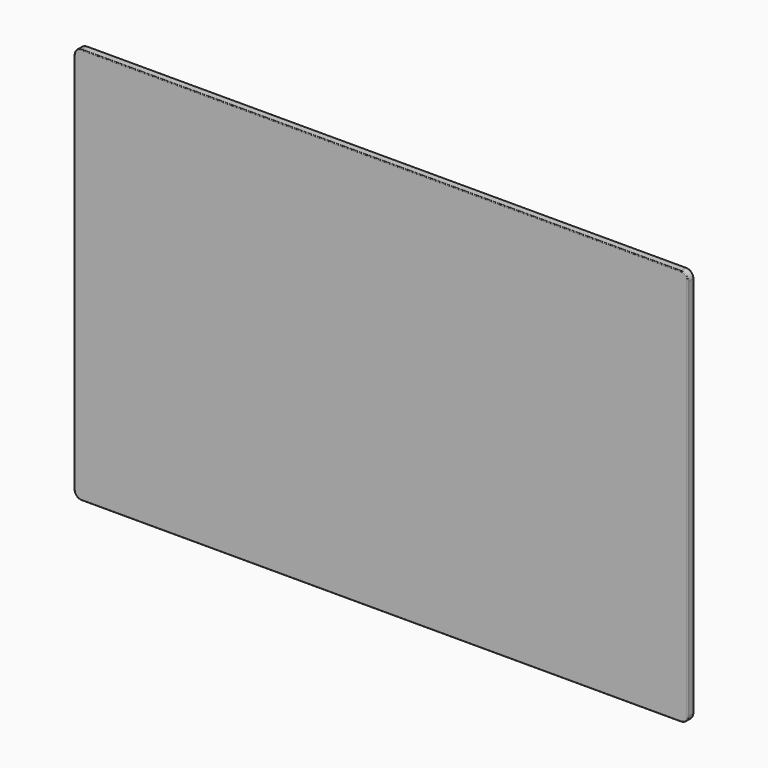
from build123d import *

# Parameters (mm, degrees)
F0_W     = 425
F0_H     = 274.8874998557
F0_W_2   = 345
F0_H_2   = 194.8874998557
F1_DEPTH = 5
F2_R     = 5
F3_R     = 0.5
F4_W     = 424
F4_H     = 273.8874998557
F4_W_2   = 345
F4_H_2   = 194.8874998557
F5_DEPTH = 0.1
F6_R     = 4.5


with BuildPart() as f1:
    # F0 (on Front) → F1 (new body)
    with BuildSketch(Plane.XZ):
        Rectangle(F0_W, F0_H)
        Rectangle(F0_W_2, F0_H_2, mode=Mode.SUBTRACT)
        Rectangle(F0_W_2, F0_H_2)
    extrude(amount=F1_DEPTH)

    # F2
    f2_edges = [f1.edges().sort_by_distance(p)[0] for p in [
        (-212.5, -2.5, 137.44375),
        (212.5, -2.5, 137.44375),
        (-212.5, -2.5, -137.44375),
        (212.5, -2.5, -137.44375),
    ]]
    fillet(f2_edges, radius=F2_R)

    # F3
    f3_edges = [f1.edges().sort_by_distance(p)[0] for p in [
        (-212.5, -5, 0),
        (-211.035534, 0, -135.979284),
    ]]
    fillet(f3_edges, radius=F3_R)


with BuildPart() as f5:
    # F4 (on face) → F5 (new body)
    with BuildSketch(Plane.XZ):
        Rectangle(F4_W, F4_H)
        Rectangle(F4_W_2, F4_H_2, mode=Mode.SUBTRACT)
    extrude(amount=-F5_DEPTH)

    # F6
    f6_edges = [f5.edges().sort_by_distance(p)[0] for p in [
        (-212, 0.05, -136.94375),
        (212, 0.05, -136.94375),
        (212, 0.05, 136.94375),
        (-212, 0.05, 136.94375),
    ]]
    fillet(f6_edges, radius=F6_R)


solid = Compound([f1.part, f5.part])
